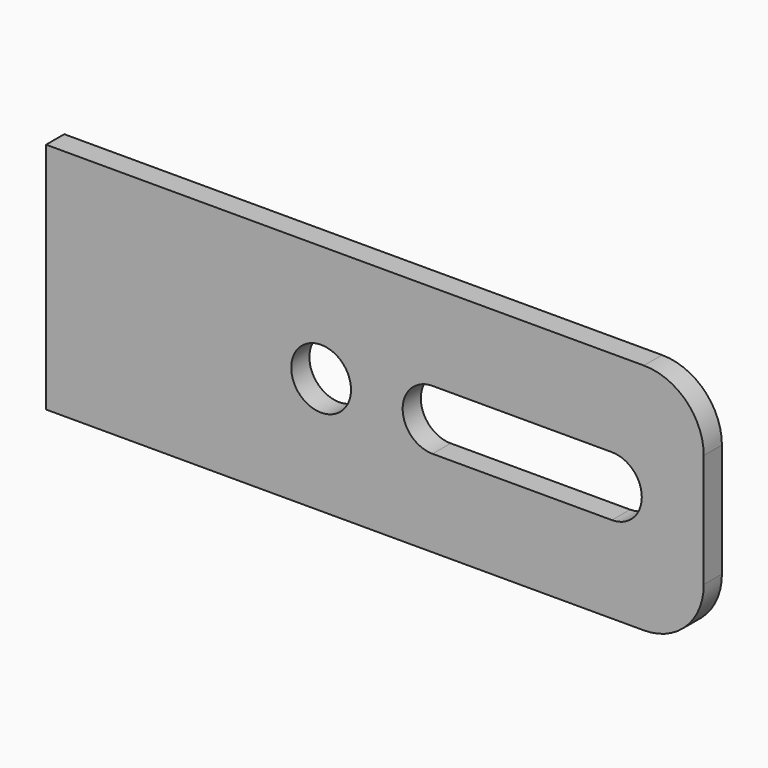
from build123d import *

# Parameters (mm, degrees)
F0_R     = 63.5
F1_DEPTH = 48.26


with BuildPart() as f1:
    # F0 (on Front) → F1 (new body)
    with BuildSketch(Plane.XZ):
        with BuildLine():
            Line((0, 495.3), (0, 0))
            Line((0, 0), (1270, 0))
            ThreePointArc((1270, 0), (1359.802561, 37.197439), (1397, 127))
            Line((1397, 127), (1397, 368.3))
            ThreePointArc((1397, 368.3), (1359.802561, 458.102561), (1270, 495.3))
            Line((1270, 495.3), (0, 495.3))
        make_face()
        with Locations((584.2, 247.65)):
            Circle(F0_R, mode=Mode.SUBTRACT)
        with BuildLine():
            Line((1201.892513, 184.15), (820.892513, 184.15))
            ThreePointArc((820.892513, 184.15), (757.392513, 247.65), (820.892513, 311.15))
            Line((820.892513, 311.15), (1201.892513, 311.15))
            ThreePointArc((1201.892513, 311.15), (1265.392513, 247.65), (1201.892513, 184.15))
        make_face(mode=Mode.SUBTRACT)
    extrude(amount=F1_DEPTH)


solid = f1.part
